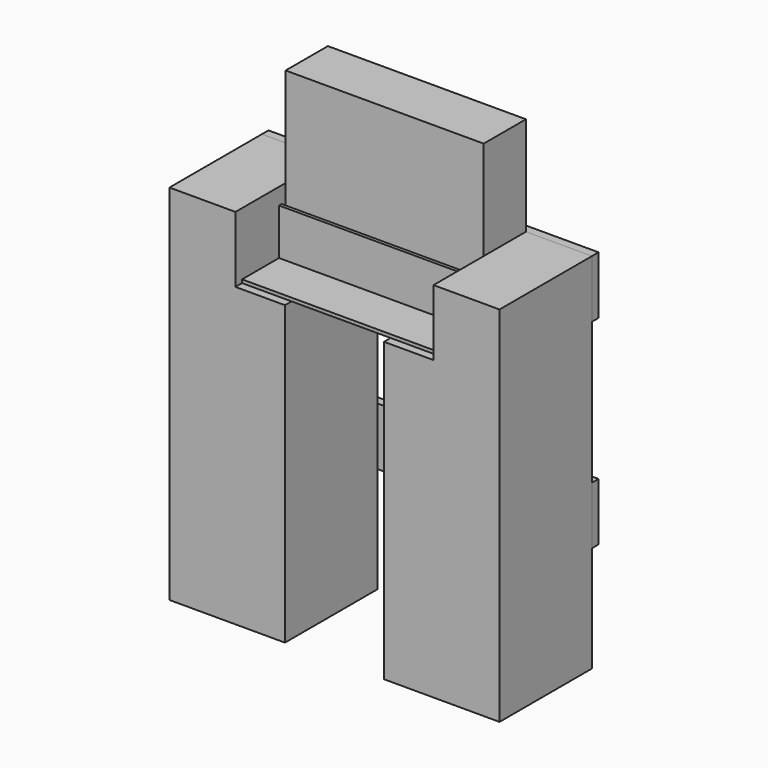
from build123d import *

# Parameters (mm, degrees)
F0_W      = 70
F0_H      = 70
F1_DEPTH  = 220
F2_W      = 30
F2_H      = 70
F4_DEPTH  = 40
F3_W      = 30
F3_H      = 70
F5_DEPTH  = 40
F6_W      = 30
F6_H      = 32
F6_W_2    = 90
F7_DEPTH  = 100
F8_W      = 40
F8_H      = 35
F8_W_2    = 160
F9_DEPTH  = 5
F10_W     = 70
F10_H     = 35
F10_W_2   = 130
F11_DEPTH = 5
F12_W     = 90
F12_H     = 30
F12_W_2   = 30
F13_DEPTH = 2
F14_W     = 120
F14_H     = 2
F15_DEPTH = 28


with BuildPart() as f1:
    # F0 (on Top) → F1 (new body)
    with BuildSketch(Plane.XY):
        with Locations((-95, 35)):
            Rectangle(F0_W, F0_H)
        with Locations((35, 35)):
            Rectangle(F0_W, F0_H)
    extrude(amount=F1_DEPTH)

    # F2 (on face) → F4 (cut)
    with BuildSketch(Plane.XY.offset(220)):
        with Locations((-75, 35)):
            Rectangle(F2_W, F2_H)
    extrude(amount=-F4_DEPTH, mode=Mode.SUBTRACT)

    # F3 (on face) → F5 (cut)
    with BuildSketch(Plane.XY.offset(220)):
        with Locations((15, 35)):
            Rectangle(F3_W, F3_H)
    extrude(amount=-F5_DEPTH, mode=Mode.SUBTRACT)


with BuildPart() as f7:
    # F6 (on face) → F7 (new body)
    with BuildSketch(Plane.XY.offset(180)):
        with Locations((-75, 54)):
            Rectangle(F6_W, F6_H)
        with Locations((-15, 54)):
            Rectangle(F6_W_2, F6_H)
    extrude(amount=F7_DEPTH)


with BuildPart() as f9:
    # F8 (on face) → F9 (new body)
    with BuildSketch(Plane(origin=(0, 70, 0), x_dir=(-1, 0, 0), z_dir=(0, 1, 0))):
        with Locations((-50, 202.5)):
            Rectangle(F8_W, F8_H)
        with Locations((50, 202.5)):
            Rectangle(F8_W_2, F8_H)
    extrude(amount=F9_DEPTH)


with BuildPart() as f11:
    # F10 (on face) → F11 (new body)
    with BuildSketch(Plane(origin=(0, 70, 0), x_dir=(-1, 0, 0), z_dir=(0, 1, 0))):
        with Locations((-35, 81.655191)):
            Rectangle(F10_W, F10_H)
        with Locations((65, 81.655191)):
            Rectangle(F10_W_2, F10_H)
    extrude(amount=F11_DEPTH)


with BuildPart() as f13:
    # F12 (on face) → F13 (new body)
    with BuildSketch(Plane.XY.offset(180)):
        with Locations((-45, 20)):
            Rectangle(F12_W, F12_H)
        with Locations((15, 20)):
            Rectangle(F12_W_2, F12_H)
    extrude(amount=F13_DEPTH)


with BuildPart() as f15:
    # F14 (on face) → F15 (new body)
    with BuildSketch(Plane.XY.offset(182)):
        with Locations((-30, 34)):
            Rectangle(F14_W, F14_H)
    extrude(amount=F15_DEPTH)


solid = Compound([f1.part, f7.part, f9.part, f11.part, f13.part, f15.part])
